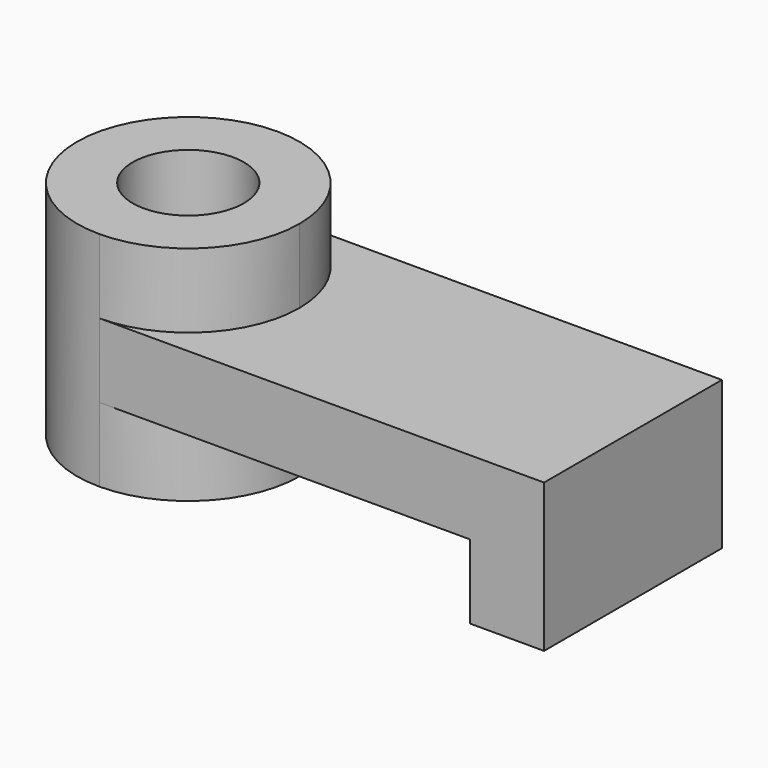
from build123d import *

# Parameters (mm, degrees)
F0_R     = 9.525
F1_DEPTH = 19.05
F2_DEPTH = 6.35
F3_W     = 12.7
F3_H     = 38.1
F4_DEPTH = 12.7


with BuildPart() as f1:
    # F0 (on Top) → F1 (new body, symmetric)
    with BuildSketch(Plane.XY):
        with BuildLine():
            ThreePointArc((-38.1, 19.05), (-57.15, 0), (-38.1, -19.05))
            ThreePointArc((-38.1, -19.05), (-24.629616, -13.470384), (-19.05, 0))
            ThreePointArc((-19.05, 0), (-24.629616, 13.470384), (-38.1, 19.05))
        make_face()
        with Locations((-38.1, 0)):
            Circle(F0_R, mode=Mode.SUBTRACT)
    extrude(amount=F1_DEPTH, both=True)

    # F0 (on Top) → F2 (join, symmetric)
    with BuildSketch(Plane.XY):
        with BuildLine():
            Line((-38.1, -19.05), (38.1, -19.05))
            Line((38.1, -19.05), (38.1, 19.05))
            Line((38.1, 19.05), (-38.1, 19.05))
            ThreePointArc((-38.1, 19.05), (-24.629616, 13.470384), (-19.05, 0))
            ThreePointArc((-19.05, 0), (-24.629616, -13.470384), (-38.1, -19.05))
        make_face()
    extrude(amount=F2_DEPTH, both=True)

    # F3 (on face) → F4 (join)
    with BuildSketch(Plane(origin=(0, 0, -6.35), x_dir=(1, 0, 0), z_dir=(0, 0, -1))):
        with Locations((31.75, 0)):
            Rectangle(F3_W, F3_H)
    extrude(amount=F4_DEPTH)


solid = f1.part
